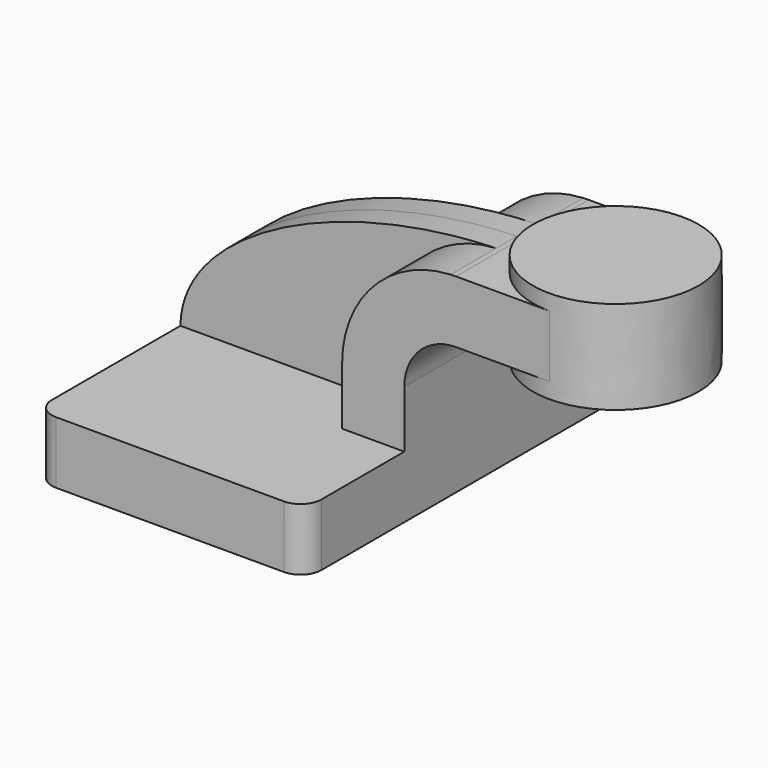
from build123d import *

# Parameters (mm, degrees)
F1_DEPTH = 63.5
F2_DEPTH = 25.4
F3_DEPTH = 7.9375
F5_R     = 6.35


with BuildPart() as f1:
    # F0 (on Front) → F1 (new body, symmetric)
    with BuildSketch(Plane.XZ):
        Polygon((22.225, 9.525), (-41.275, 9.525), (-41.275, -9.525), (41.275, -9.525), (41.275, 9.525), align=None)
    extrude(amount=F1_DEPTH, both=True)

    # F0 (on Front) → F2 (join, symmetric)
    with BuildSketch(Plane.XZ):
        with BuildLine():
            Line((22.225, 27.0002), (22.225, 9.525))
            Line((22.225, 9.525), (41.275, 9.525))
            Line((41.275, 9.525), (41.275, 27.0002))
            ThreePointArc((41.275, 27.0002), (45.9246798487, 38.2255201513), (57.15, 42.8752))
            Line((57.15, 42.8752), (60.325, 42.8752))
            Line((60.325, 42.8752), (60.325, 61.9252))
            Line((60.325, 61.9252), (57.15, 61.9252))
            add(Edge.make_bspline(
                [(55.4794704974, 61.8852248127), (56.036011294, 61.9013524911), (56.5928753418, 61.9146861922), (57.15, 61.9252)],
                knots=[110.2645678644, 110.2645678644, 110.2645678644, 110.2645678644, 111.5045361635, 111.5045361635, 111.5045361635, 111.5045361635], degree=3))
            ThreePointArc((55.4794704974, 61.8852248127), (31.8705729112, 51.0980461913), (22.225, 27.0002))
        make_face()
        Polygon((85.7179611921, 61.9252), (60.325, 61.9252), (60.325, 42.8752), (85.723823737, 42.8752), align=None)
    extrude(amount=F2_DEPTH, both=True)

    # F0 (on Front) → F3 (join, symmetric)
    with BuildSketch(Plane.XZ):
        with BuildLine():
            add(Edge.make_bspline(
                [(-41.275, 9.525), (-40.945480422, 36.9229423767), (5.9889065218, 60.4510659796), (55.4794704974, 61.8852248127)],
                knots=[0, 0, 0, 0, 110.2645678644, 110.2645678644, 110.2645678644, 110.2645678644], degree=3))
            Line((-41.275, 9.525), (22.225, 9.525))
            Line((22.225, 9.525), (22.225, 27.0002))
            ThreePointArc((22.225, 27.0002), (31.8705729112, 51.0980461913), (55.4794704974, 61.8852248127))
        make_face()
    extrude(amount=F3_DEPTH, both=True)

    # F0 (on Front) → F4 (revolve)
    with BuildSketch(Plane.XZ):
        Polygon((111.125, 66.675), (85.725, 66.675), (85.7337938173, 38.1), (111.125, 38.1), align=None)
    revolve(axis=Axis((85.7293969086, 0, 52.3875), (0.0003077451, 0, -0.9999999526)))

    # F5
    f5_edges = [f1.edges().sort_by_distance(p)[0] for p in [
        (-41.275, -63.5, 0),
        (41.275, -63.5, 0),
        (41.275, 63.5, 0),
        (-41.275, 63.5, 0),
    ]]
    fillet(f5_edges, radius=F5_R)


solid = f1.part
